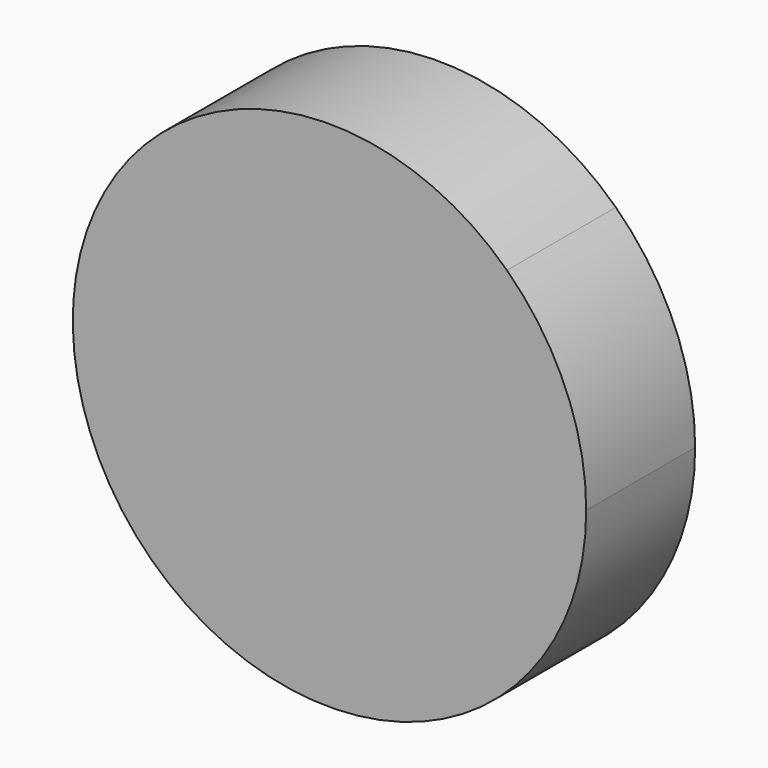
from build123d import *

# Parameters (mm, degrees)
F1_DEPTH = 25


with BuildPart() as f1:
    # F0 (on Front) → F1 (new body)
    with BuildSketch(Plane.XZ):
        with BuildLine():
            ThreePointArc((34.060664, -32.569028), (43.737952, -17.545993), (47.126111, 0))
            ThreePointArc((47.126111, 0), (43.334293, 18.520512), (32.569028, 34.060664))
            Line((32.569028, 34.060664), (0, 0))
            Line((0, 0), (34.060664, -32.569028))
        make_face()
        with BuildLine():
            Line((0, 0), (32.569028, 34.060664))
            ThreePointArc((32.569028, 34.060664), (1.069264, 47.113979), (-30.990258, 35.503158))
            Line((-30.990258, 35.503158), (0, 0))
        make_face()
        with BuildLine():
            ThreePointArc((-35.503158, -30.990258), (-1.069264, -47.113979), (34.060664, -32.569028))
            Line((34.060664, -32.569028), (0, 0))
            Line((0, 0), (-35.503158, -30.990258))
        make_face()
        with BuildLine():
            Line((0, 0), (-30.990258, 35.503158))
            ThreePointArc((-30.990258, 35.503158), (-47.017946, 3.191102), (-35.503158, -30.990258))
            Line((-35.503158, -30.990258), (0, 0))
        make_face()
    extrude(amount=F1_DEPTH)


solid = f1.part
